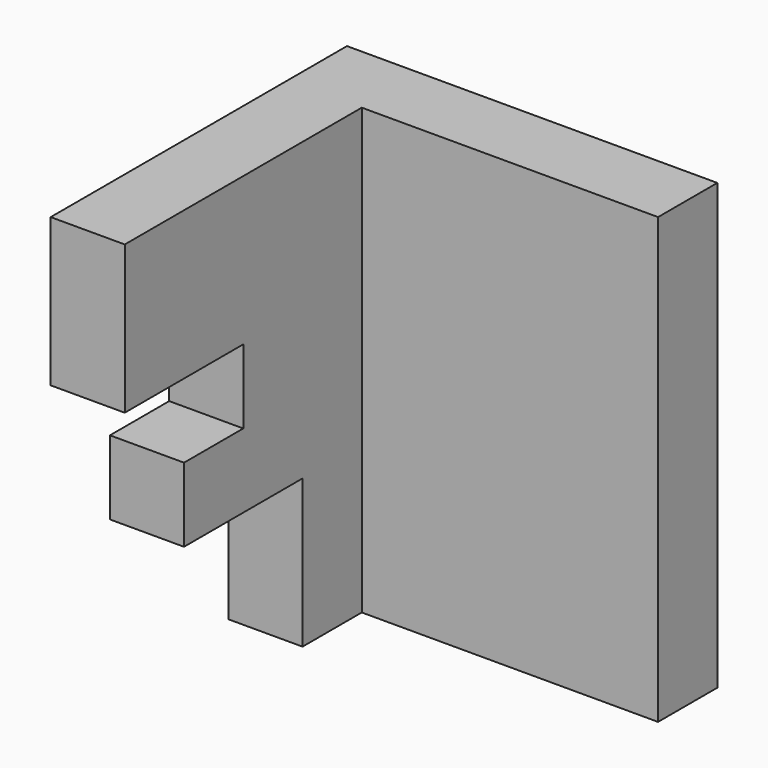
from build123d import *

# Parameters (mm, degrees)
F1_DEPTH = 63.5
F3_DEPTH = 50.8


with BuildPart() as f1:
    # F0 (on Right) → F1 (new body)
    with BuildSketch(Plane.YZ):
        Polygon((41.247137, 62.194374), (-22.252863, 62.194374), (-22.252863, 36.794374), (3.147137, 36.794374), (3.147137, 24.094374), (-9.552863, 24.094374), (-9.552863, 11.394374), (15.847137, 11.394374), (15.847137, -14.005626), (41.247137, -14.005626), align=None)
    extrude(amount=F1_DEPTH)

    # F2 (on face) → F3 (cut)
    with BuildSketch(Plane.YZ.offset(63.5)):
        Polygon((15.847137, 11.394374), (15.847137, -14.005626), (28.547137, -14.005626), (28.547137, 62.194374), (-22.252863, 62.194374), (-22.252863, 36.794374), (3.147137, 36.794374), (3.147137, 24.094374), (-9.552863, 24.094374), (-9.552863, 11.394374), align=None)
    extrude(amount=-F3_DEPTH, mode=Mode.SUBTRACT)


solid = f1.part
